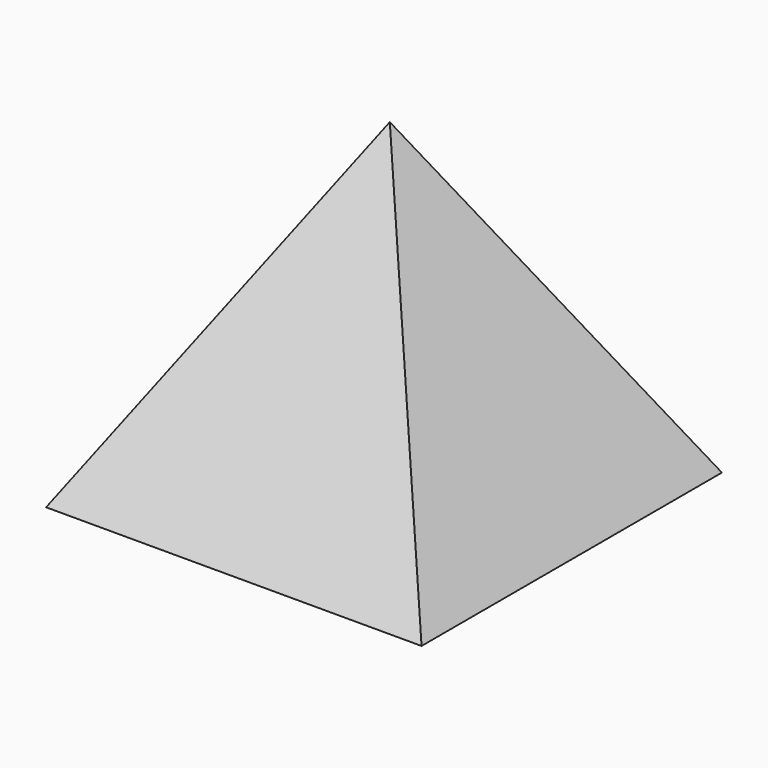
from build123d import *

# Parameters (mm, degrees)
F0_W = 600
F0_H = 600
F4_T = -20


with BuildPart() as f3:
    # F0 (on Top) → F3 section 0
    with BuildSketch(Plane.XY, mode=Mode.PRIVATE) as f3_s0:
        with Locations((300, 300)):
            Rectangle(F0_W, F0_H)
    loft([Vertex(284.5519781113, 330.8924702069, 500), f3_s0.sketch])

    # F4
    f4_openings = [f3.faces().sort_by_distance(p)[0] for p in [
        (300, 300, 0),
    ]]
    offset(amount=F4_T, openings=f4_openings)


solid = f3.part
